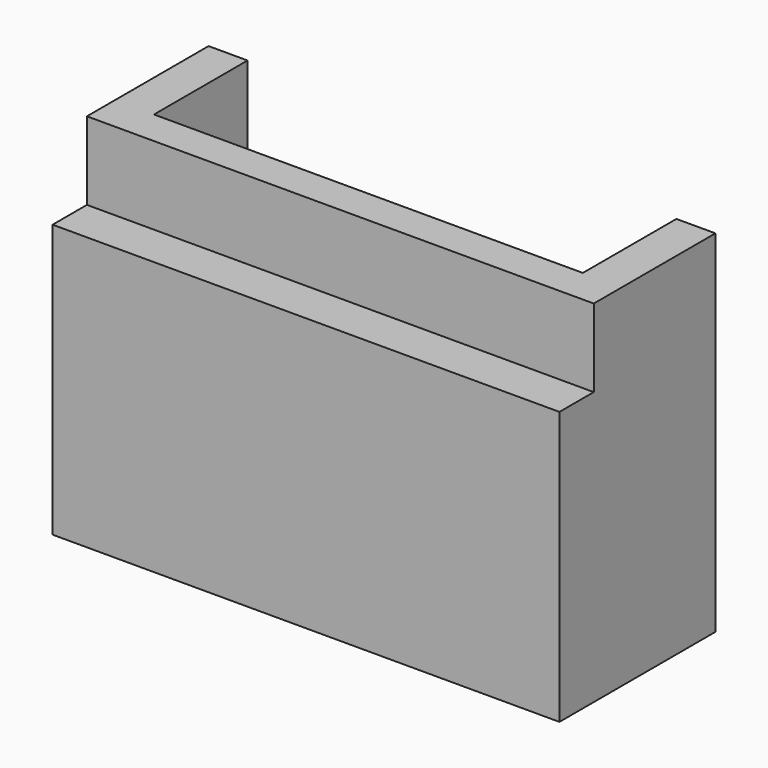
from build123d import *

# Parameters (mm, degrees)
SKETCH050_W      = 2
SKETCH050_H      = 3
EXTRUDE047_DEPTH = 7
EXTRUDE046_DEPTH = 9


with BuildPart() as extrude047:
    # Sketch050 → Extrude047 (new body, symmetric)
    with BuildSketch(Plane.YZ):
        with Locations((35.1, 7.5)):
            Rectangle(SKETCH050_W, SKETCH050_H)
    extrude(amount=EXTRUDE047_DEPTH, both=True)


with BuildPart() as cut040:
    # Sketch049 → Extrude046 (new body)
    with BuildSketch(Plane.XY.offset(-1)):
        Polygon((-5.5, 40), (-5.5, 37), (5.5, 37), (5.5, 40), (6.5, 40), (6.5, 35), (-6.5, 35), (-6.5, 40), align=None)
    extrude(amount=EXTRUDE046_DEPTH)

    # Cut040: cut Extrude047
    add(extrude047.part, mode=Mode.SUBTRACT)


solid = cut040.part
